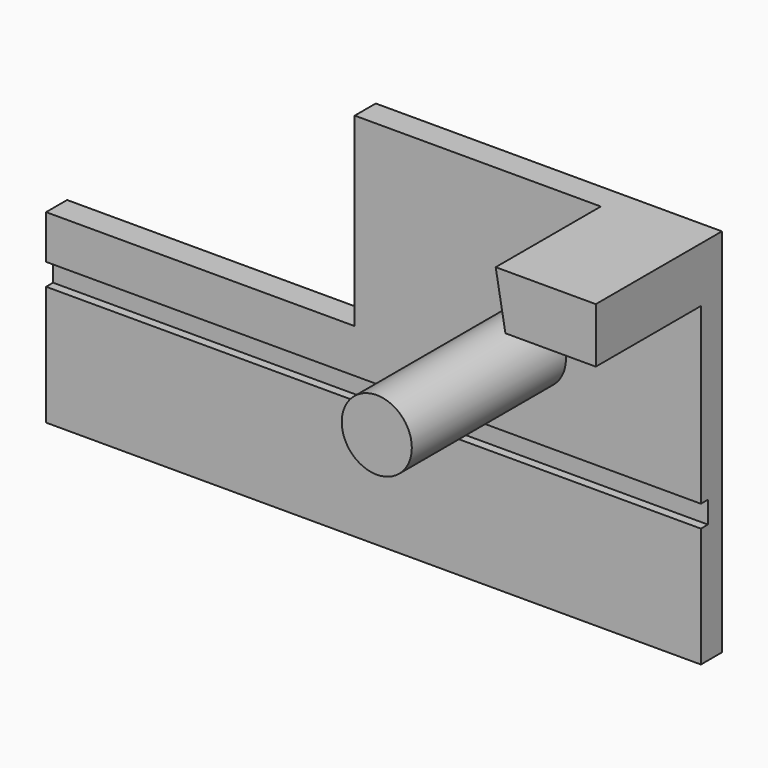
from build123d import *

# Parameters (mm, degrees)
F0_R     = 4
F1_DEPTH = 3
F2_DEPTH = 25
F3_W     = 74.7634656727
F3_H     = 2.5
F4_DEPTH = 1
F5_DEPTH = 18


with BuildPart() as f1:
    # F0 (on Front) → F1 (new body)
    with BuildSketch(Plane.XZ):
        Polygon((-5.3837564774, 0), (-40.6250022352, 0), (-40.6250022352, -21.1607143283), (34.1384634376, -21.1607143283), (34.1384634376, 14.8761495948), (23.8177376958, 14.8761495948), (22.7095993713, 21.1607143283), (-5.3837564774, 21.1607143283), align=None)
        with Locations((14.7321438417, 4.5535718091)):
            Circle(F0_R, mode=Mode.SUBTRACT)
    extrude(amount=F1_DEPTH)

    # F0 (on Front) → F2 (join)
    with BuildSketch(Plane.XZ):
        with Locations((14.7321438417, 4.5535718091)):
            Circle(F0_R)
    extrude(amount=F2_DEPTH)

    # F3 (on face) → F4 (cut)
    with BuildSketch(Plane.XZ.offset(3)):
        with Locations((-3.2432693988, -6.25)):
            Rectangle(F3_W, F3_H)
    extrude(amount=-F4_DEPTH, mode=Mode.SUBTRACT)

    # F0 (on Front) → F5 (join)
    with BuildSketch(Plane.XZ):
        Polygon((23.8177376958, 14.8761495948), (34.1384634376, 14.8761495948), (34.1384634376, 21.1607143283), (22.7095993713, 21.1607143283), align=None)
    extrude(amount=F5_DEPTH)


solid = f1.part
